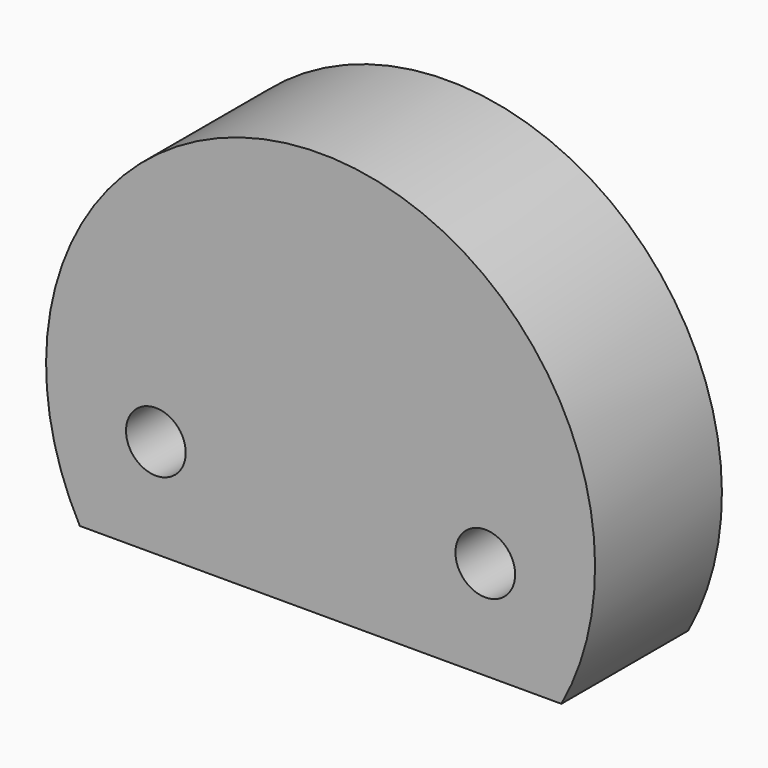
from build123d import *

# Parameters (mm, degrees)
F0_R     = 1.7272
F1_DEPTH = 9.1694


with BuildPart() as f1:
    # F0 (on Front) → F1 (new body)
    with BuildSketch(Plane.XZ):
        with BuildLine():
            Line((-13.926637, -7.62), (13.926637, -7.62))
            ThreePointArc((13.926637, -7.62), (0, 15.875), (-13.926637, -7.62))
        make_face()
        with Locations((-9.525, -1.905)):
            Circle(F0_R, mode=Mode.SUBTRACT)
        with Locations((9.525, -1.905)):
            Circle(F0_R, mode=Mode.SUBTRACT)
    extrude(amount=F1_DEPTH)


solid = f1.part
